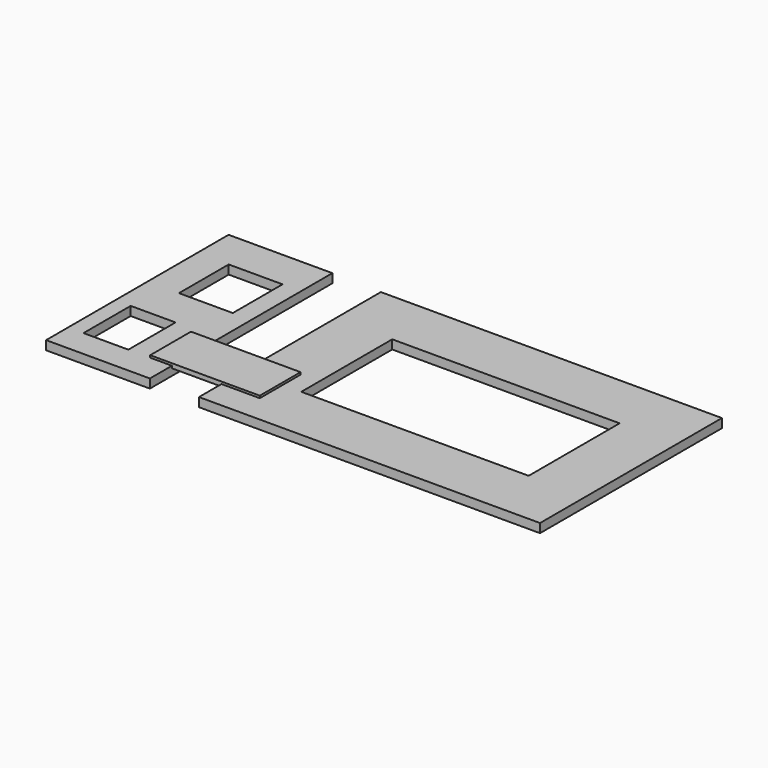
from build123d import *

# Parameters (mm, degrees)
F0_W     = 76.2
F0_H     = 50.8
F0_W_2   = 50.8
F0_H_2   = 25.4
F0_W_3   = 23.191605
F0_H_3   = 50.96427
F0_W_4   = 10.021061
F0_H_4   = 13.170541
F0_W_5   = 12.025278
F0_H_5   = 13.886331
F1_DEPTH = 2
F2_W     = 24.481693
F2_H     = 11.384138
F3_DEPTH = 0.5


with BuildPart() as f1:
    # F0 (on Top) → F1 (new body)
    with BuildSketch(Plane.XY):
        Rectangle(F0_W, F0_H)
        Rectangle(F0_W_2, F0_H_2, mode=Mode.SUBTRACT)
        with Locations((-60.76817, 0.214737)):
            Rectangle(F0_W_3, F0_H_3)
        with Locations((-63.917644, -12.526329)):
            Rectangle(F0_W_4, F0_H_4, mode=Mode.SUBTRACT)
        with Locations((-59.33659, 10.021064)):
            Rectangle(F0_W_5, F0_H_5, mode=Mode.SUBTRACT)
    extrude(amount=F1_DEPTH)


with BuildPart() as f3:
    # F2 (on face) → F3 (new body, symmetric)
    with BuildSketch(Plane.XY.offset(2)):
        with Locations((-41.783, -13.419531)):
            Rectangle(F2_W, F2_H)
    extrude(amount=F3_DEPTH, both=True)


solid = Compound([f1.part, f3.part])
